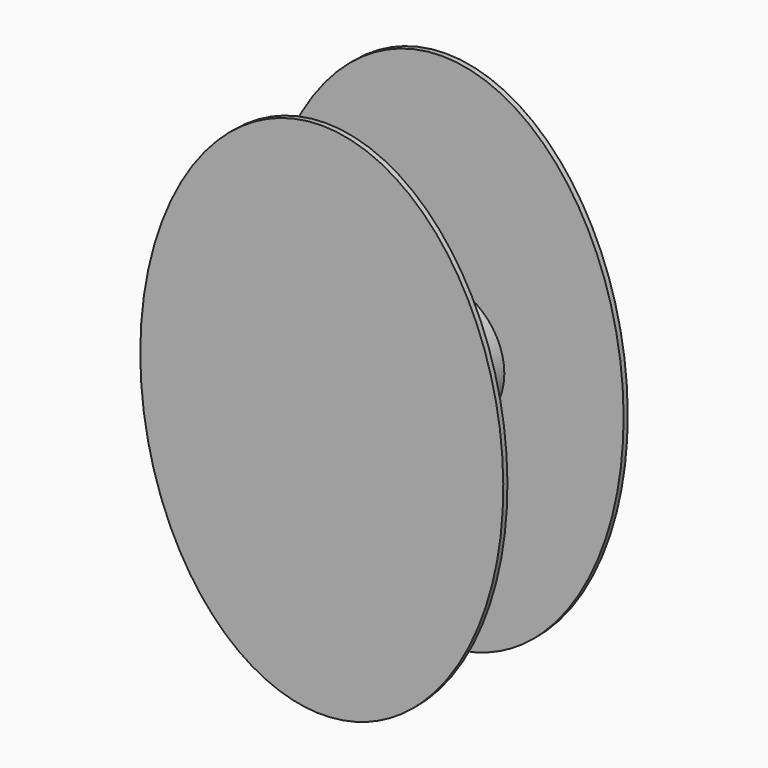
from build123d import *

# Parameters (mm, degrees)
F0_R     = 3.048
F1_DEPTH = 3.81
F2_R     = 3.048
F3_DEPTH = 0.254


with BuildPart() as f1:
    # F0 (on Front) → F1 (new body)
    with BuildSketch(Plane.XZ):
        Circle(F0_R)
    extrude(amount=F1_DEPTH)

    # F2 (on face) → F3 (join)
    with BuildSketch(Plane.XZ.offset(3.81)):
        with BuildLine():
            add(Edge.make_bspline(
                [(0, 12.7), (-15.397932, 12.7), (-7.698966, -6.35), (0, -25.4), (7.698966, -6.35), (15.397932, 12.7), (0, 12.7)],
                knots=[0, 0, 0, 2.094395, 2.094395, 4.18879, 4.18879, 6.283185, 6.283185, 6.283185], degree=2, weights=[1, 0.5, 1, 0.5, 1, 0.5, 1]))
        make_face()
        Circle(F2_R, mode=Mode.SUBTRACT)
    extrude(amount=-F3_DEPTH)

    # F4: F1 across plane


with BuildPart() as f1_1:
    add(f1.part)
    add(f1.part.mirror(Plane.XZ))


solid = f1_1.part
